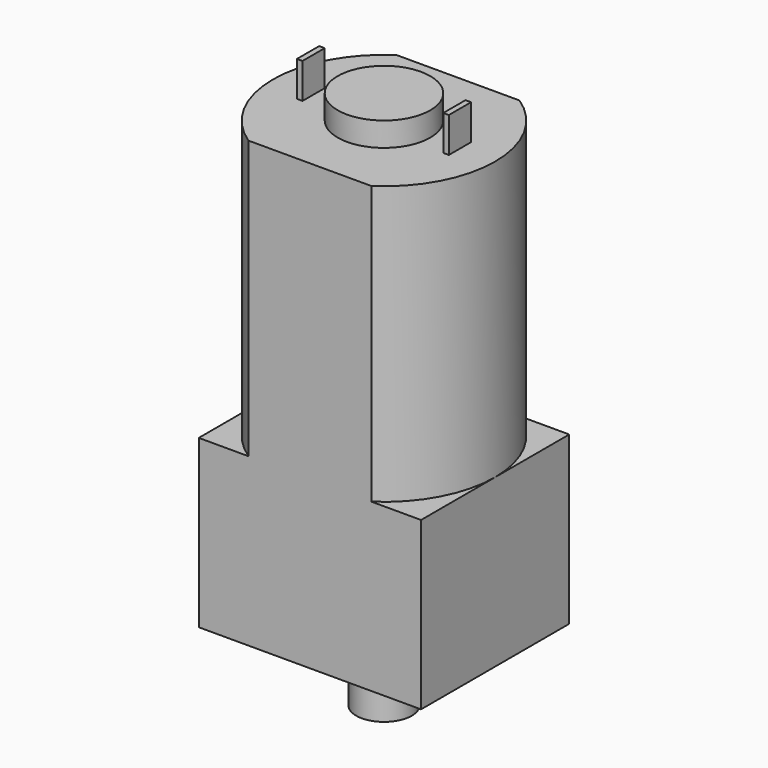
from build123d import *

# Parameters (mm, degrees)
F1_DEPTH  = 15
F2_W      = 12
F2_H      = 10
F3_DEPTH  = 9
F4_R      = 0.8
F5_DEPTH  = 1
F6_R      = 1.5
F7_DEPTH  = 3.8
F8_R      = 2.5
F9_DEPTH  = 1.3
F10_W     = 0.3
F10_H     = 1.5
F11_DEPTH = 1.9


with BuildPart() as f1:
    # F0 (on Top) → F1 (new body)
    with BuildSketch(Plane.XY):
        with BuildLine():
            Line((3.316625, 5), (-3.316625, 5))
            ThreePointArc((-3.316625, 5), (-6, 0), (-3.316625, -5))
            Line((-3.316625, -5), (3.316625, -5))
            ThreePointArc((3.316625, -5), (6, 0), (3.316625, 5))
        make_face()
    extrude(amount=F1_DEPTH)

    # F2 (on face) → F3 (join)
    with BuildSketch(Plane(origin=(0, 0, 0), x_dir=(1, 0, 0), z_dir=(0, 0, -1))):
        Rectangle(F2_W, F2_H)
    extrude(amount=F3_DEPTH)

    # F4 (on face) → F5 (cut)
    with BuildSketch(Plane(origin=(0, 0, -9), x_dir=(1, 0, 0), z_dir=(0, 0, -1))):
        with Locations((-4.5, 0)):
            Circle(F4_R)
        with Locations((4.5, 0)):
            Circle(F4_R)
    extrude(amount=-F5_DEPTH, mode=Mode.SUBTRACT)

    # F6 (on face) → F7 (join)
    with BuildSketch(Plane(origin=(0, 0, -9), x_dir=(1, 0, 0), z_dir=(0, 0, -1))):
        Circle(F6_R)
    extrude(amount=F7_DEPTH)

    # F8 (on face) → F9 (join)
    with BuildSketch(Plane.XY.offset(15)):
        Circle(F8_R)
    extrude(amount=F9_DEPTH)

    # F10 (on face) → F11 (join)
    with BuildSketch(Plane.XY.offset(15)):
        with Locations((3.95, 0)):
            Rectangle(F10_W, F10_H)
        with Locations((-3.95, 0)):
            Rectangle(F10_W, F10_H)
    extrude(amount=F11_DEPTH)


solid = f1.part
